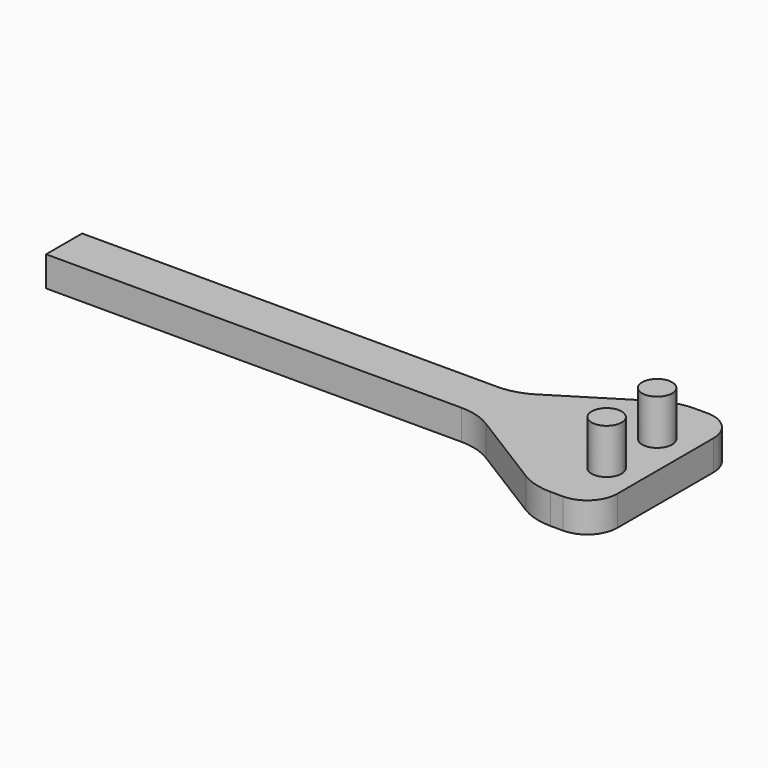
from build123d import *

# Parameters (mm, degrees)
F0_R     = 5
F1_DEPTH = 10
F2_DEPTH = 25
F3_DEPTH = 25
F4_R     = 10
F5_R     = 20


with BuildPart() as f1:
    # F0 (on Top) → F1 (new body)
    with BuildSketch(Plane.XY):
        Polygon((80, 30), (43.835908, 7.5), (-100, 7.5), (-100, -7.5), (43.835908, -7.5), (80, -30), (100, -30), (100, 0), (100, 30), align=None)
        with Locations((88.843614, -10.5)):
            Circle(F0_R, mode=Mode.SUBTRACT)
        with Locations((88.843614, 10.5)):
            Circle(F0_R, mode=Mode.SUBTRACT)
        with Locations((88.843614, -10.5)):
            Circle(F0_R)
        with Locations((88.843614, 10.5)):
            Circle(F0_R)
    extrude(amount=F1_DEPTH)

    # F0 (on Top) → F2 (join)
    with BuildSketch(Plane.XY):
        with Locations((88.843614, -10.5)):
            Circle(F0_R)
    extrude(amount=F2_DEPTH)

    # F0 (on Top) → F3 (join)
    with BuildSketch(Plane.XY):
        with Locations((88.843614, 10.5)):
            Circle(F0_R)
    extrude(amount=F3_DEPTH)

    # F4
    f4_edges = [f1.edges().sort_by_distance(p)[0] for p in [
        (100, 30, 5),
        (100, -30, 5),
    ]]
    fillet(f4_edges, radius=F4_R)

    # F5
    f5_edges = [f1.edges().sort_by_distance(p)[0] for p in [
        (80, -30, 5),
        (80, 30, 5),
        (43.835908, 7.5, 5),
        (43.835908, -7.5, 5),
    ]]
    fillet(f5_edges, radius=F5_R)


solid = f1.part
